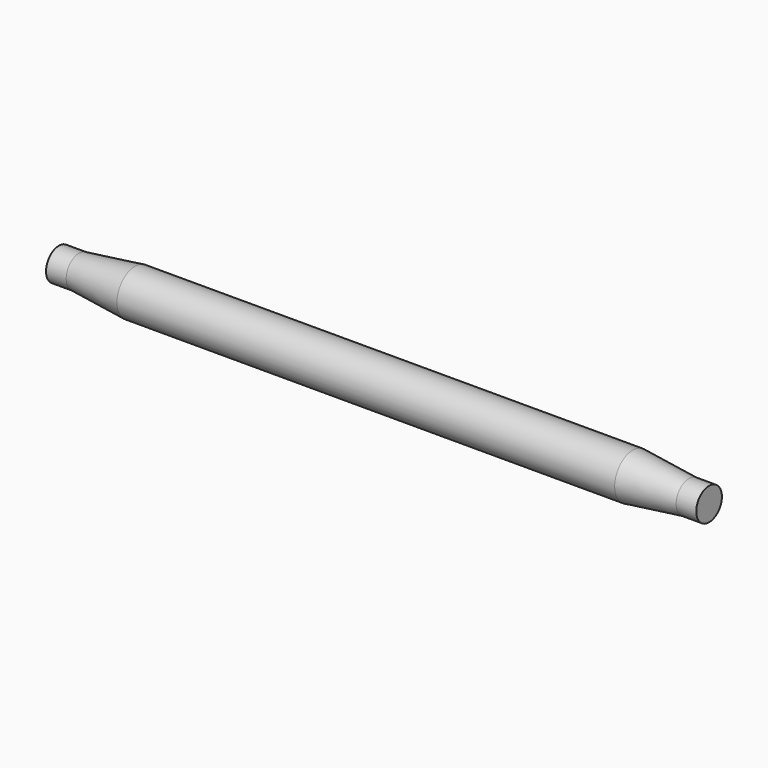
from build123d import *

# Parameters (mm, degrees)
F0_R       = 53.975
F1_DEPTH   = 590.55
F3_R       = 38.1
F4_DEPTH   = 47.752
F1_FACE_R  = 53.975
F4_FACE_R  = 38.1
F1_FACE1_R = 53.975
F5_FACE_R  = 38.1
F8_SCALE   = 1.6


with BuildPart() as f1:
    # F0 (on Right) → F1 (new body, symmetric)
    with BuildSketch(Plane.YZ):
        Circle(F0_R)
    extrude(amount=F1_DEPTH, both=True)



with BuildPart() as f4:
    # F3 (on offset) → F4 (new body)
    with BuildSketch(Plane.YZ.offset(771.398)):
        Circle(F3_R)
    extrude(amount=-F4_DEPTH)


with BuildPart() as f5_1:
    # F5: instance of F4
    add(f4.part.mirror(Plane.YZ))


with BuildPart() as f1_1:
    add(f1.part)

    add(f4.part)  # F6 merges F4
    # F1_face (on face) → F6 section 0
    with BuildSketch(Plane.YZ.offset(590.55)):
        Circle(F1_FACE_R)
    # F4_face (on face) → F6 section 1
    with BuildSketch(Plane(origin=(723.646, 0, 0), x_dir=(0, 1, 0), z_dir=(-1, 0, 0))):
        Circle(F4_FACE_R)
    loft()


    add(f5_1.part)  # F7 merges F5_1
    # F1_face1 (on face) → F7 section 0
    with BuildSketch(Plane(origin=(-590.55, 0, 0), x_dir=(0, 1, 0), z_dir=(-1, 0, 0))):
        Circle(F1_FACE1_R)
    # F5_face (on face) → F7 section 1
    with BuildSketch(Plane.YZ.offset(-723.646)):
        Circle(F5_FACE_R)
    loft()


with BuildPart() as f1_2:
    # F8: moved
    add(f1_1.part.scale(F8_SCALE))


solid = f1_2.part
